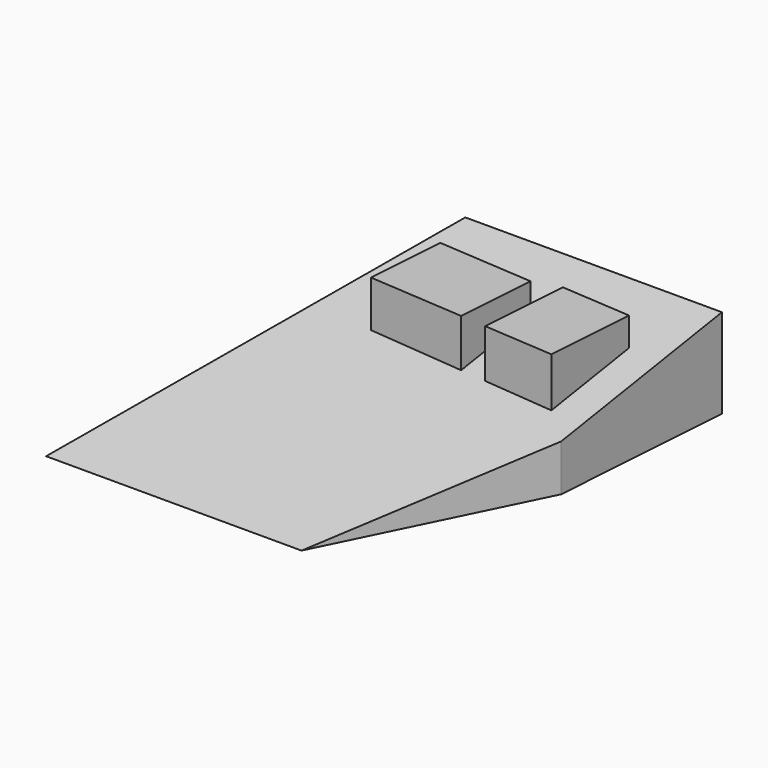
from build123d import *

# Parameters (mm, degrees)
F1_DEPTH = 1460.5
F3_DEPTH = 711.201
F5_DEPTH = 812.8


with BuildPart() as f1:
    # F0 (on Right) → F1 (new body, symmetric)
    with BuildSketch(Plane.YZ):
        Polygon((1534.126357, 355.6), (0, 0), (-1534.126357, -355.6), (1534.126357, -355.6), align=None)
    extrude(amount=F1_DEPTH, both=True)

    # F2 (on face) → F3 (cut, through all)
    with BuildSketch(Plane(origin=(0, 0, -355.6), x_dir=(1, 0, 0), z_dir=(0, 0, -1))):
        Polygon((-580.692692, -1534.126357), (-1460.5, 1534.126357), (-1460.5, -1534.126357), align=None)
        Polygon((1460.5, -1534.126357), (1460.5, 1534.126357), (571.5, 1534.126357), (1357.734763, -64.514998), align=None)
    extrude(amount=-F3_DEPTH, mode=Mode.SUBTRACT)

    # F4 (on face) → F5 (join)
    with BuildSketch(Plane(origin=(0, 0, -355.6), x_dir=(1, 0, 0), z_dir=(0, 0, -1))):
        Polygon((-411.298605, -383.987753), (-367.003244, -1017.440925), (393.140562, -964.286492), (348.845201, -330.83332), align=None)
        Polygon((551.550216, -316.658805), (601.16102, -1026.126357), (1158.599811, -987.14644), (1108.989007, -277.678887), align=None)
    extrude(amount=-F5_DEPTH)


solid = f1.part
